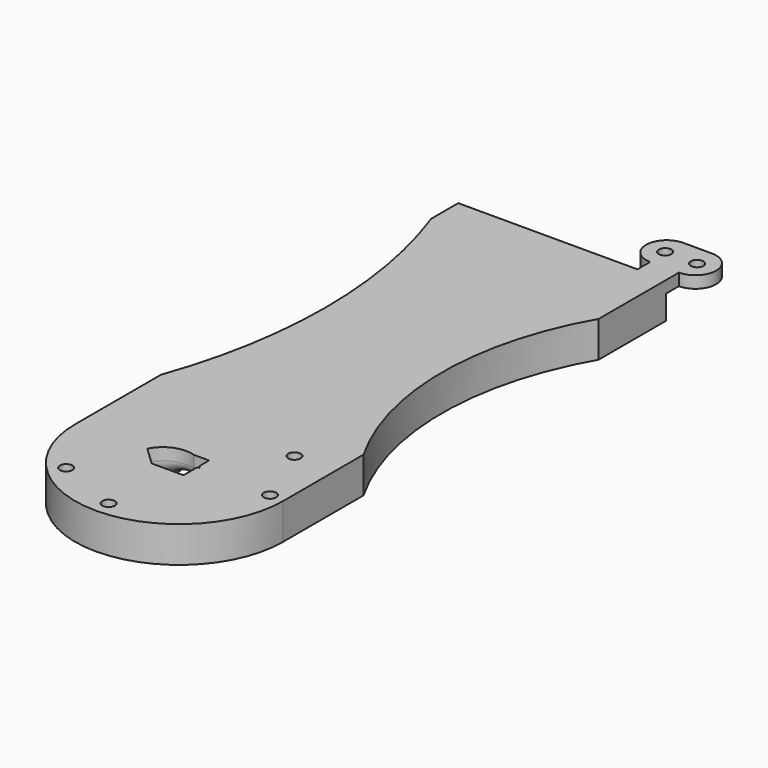
from build123d import *

# Parameters (mm, degrees)
SKETCH_R             = 1.58
PAD_DEPTH            = 3
PAD001_DEPTH         = 6
POCKET_DEPTH         = 4
SKETCH006_R          = 1.58
POCKET001_DEPTH      = 6.001
POCKET001_DEPTH_BACK = -3.001
POCKET002_DEPTH      = 6.001
POCKET002_DEPTH_BACK = -3.001


with BuildPart() as part:
    # Sketch → Pad (new body)
    with BuildSketch(Plane.XY):
        with BuildLine():
            ThreePointArc((-3.6, 13.56), (-8.78, 8.38), (-3.6, 3.2))
            Line((-3.6, 3.2), (-3.6, 0))
            Line((-3.6, 0), (-3.6, -0.8))
            Line((-48.5, -0.8), (-3.6, -0.8))
            Line((-48.5, -0.8), (-48.5, -120.8))
            ThreePointArc((-48.5, -120.8), (-22.45, -146.85), (3.6, -120.8))
            Line((3.6, 0), (3.6, -120.8))
            Line((3.6, 3.2), (3.6, 0))
            ThreePointArc((3.6, 3.2), (8.78, 8.38), (3.6, 13.56))
            Line((3.6, 13.56), (0, 13.56))
            Line((-3.6, 13.56), (0, 13.56))
        make_face()
        with Locations((-4, 8.38)):
            Circle(SKETCH_R, mode=Mode.SUBTRACT)
        with Locations((4, 8.38)):
            Circle(SKETCH_R, mode=Mode.SUBTRACT)
    extrude(amount=PAD_DEPTH)

    # Sketch001 → Pad001 (join)
    with BuildSketch(Plane.XY):
        with BuildLine():
            Line((3.6, -0.8), (-48.5, -0.8))
            Line((-48.5, -0.8), (-48.5, -120.8))
            ThreePointArc((-48.5, -120.8), (-22.45, -146.85), (3.6, -120.8))
            Line((3.6, -0.8), (3.6, -120.8))
        make_face()
    extrude(amount=-PAD001_DEPTH)

    # SubtractivePipe: sweep along a path in Sketch004
    with BuildLine(Plane.YZ) as subtractivepipe_path:
        Line((0, -6), (-114, -6))
        ThreePointArc((-114, -6), (-118.242641, -4.242641), (-120, 0))
        Line((-120, 0), (-120, 3))
    # Sketch002 → SubtractivePipe (sweep, cut)
    with BuildSketch(Plane.XZ):
        with BuildLine():
            Line((-24.5, -6.04), (-31, -6.04))
            ThreePointArc((-18, -6.04), (-24.5, -2.04), (-31, -6.04))
            Line((-24.5, -6.04), (-18, -6.04))
        make_face()
    sweep(path=subtractivepipe_path.line, mode=Mode.SUBTRACT)

    # Sketch005 → Pocket (cut)
    with BuildSketch(Plane.XY.offset(3)):
        Polygon((-26.45, -124.4), (-18.45, -124.4), (-18.45, -116.4), (-26.45, -116.4), (-27.691676, -116.776802), (-31, -120.04), align=None)
    extrude(amount=-POCKET_DEPTH, mode=Mode.SUBTRACT)

    # Sketch006 → Pocket001 (cut, two sides)
    with BuildSketch(Plane.XY) as pocket001_sk:
        with Locations((-22.45, -142.87)):
            Circle(SKETCH006_R)
        with Locations((0.02, -120.4)):
            Circle(SKETCH006_R)
        with Locations((-6.561311, -104.511311)):
            Circle(SKETCH006_R)
        with Locations((-38.338689, -136.288689)):
            Circle(SKETCH006_R)
    extrude(amount=-POCKET001_DEPTH, mode=Mode.SUBTRACT)
    extrude(pocket001_sk.sketch, amount=-POCKET001_DEPTH_BACK, mode=Mode.SUBTRACT)

    # Sketch007 → Pocket002 (cut, two sides)
    with BuildSketch(Plane.XY) as pocket002_sk:
        with BuildLine():
            Line((-58.822819, 0), (-58.822819, -99.491015))
            Line((-58.822819, -99.491015), (-50.649527, -99.491015))
            ThreePointArc((-50.649527, -99.491015), (-41.14496, -49.579042), (-52.256237, 0))
            Line((-52.256237, 0), (-52.256237, 31.290133))
            Line((-52.256237, 31.290133), (11.992633, 31.290133))
            Line((11.992633, -10.093772), (11.992633, 31.290133))
            ThreePointArc((11.992633, -10.093772), (-6.175004, -57.263804), (10.086987, -105.124252))
            Line((35.256332, -105.124252), (10.086987, -105.124252))
            Line((35.256332, 66.325943), (35.256332, -105.124252))
            Line((-58.822819, 66.325943), (35.256332, 66.325943))
            Line((-58.822819, 0), (-58.822819, 66.325943))
        make_face()
    extrude(amount=-POCKET002_DEPTH, mode=Mode.SUBTRACT)
    extrude(pocket002_sk.sketch, amount=-POCKET002_DEPTH_BACK, mode=Mode.SUBTRACT)


solid = part.part
